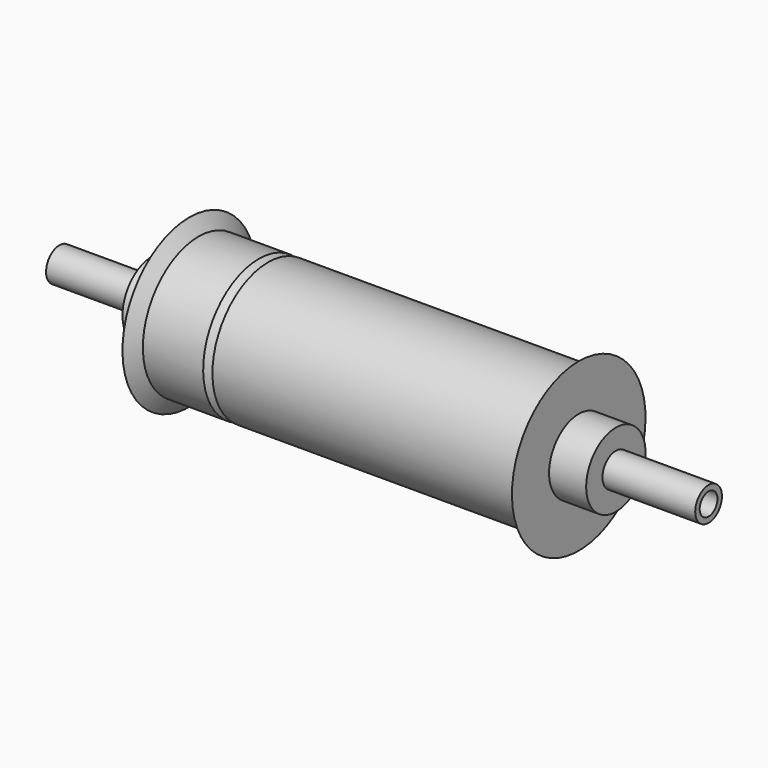
from build123d import *


with BuildPart() as f1:
    # F0 (on Front) → F1 (revolve)
    with BuildSketch(Plane.XZ):
        Polygon((70, 2.4), (70, 3.6), (50, 3.6), (50, 8), (42, 8), (42, 18), (40, 15), (-25, 15), (-25, 13.8), (37.265728, 13.8), (41.30718, 6.8), (46.766838, 6.8), (49.30718, 2.4), align=None)
    revolve(axis=Axis((37.433878, 0, 0), (1, 0, 0)))


with BuildPart() as f3:
    # F2 (on Front) → F3 (revolve)
    with BuildSketch(Plane.XZ):
        Polygon((-27, 15), (-40, 15), (-42, 18), (-42, 8), (-50, 8), (-50, 3.6), (-70, 3.6), (-70, 2.4), (-49.30718, 2.4), (-46.766838, 6.8), (-41.30718, 6.8), (-37.265728, 13.8), (-28.2, 13.8), align=None)
        Polygon((-25.8, 13.8), (-27, 15), (-28.2, 13.8), (-27, 12.6), align=None)
        Polygon((27.265728, 13.8), (-25.8, 13.8), (-27, 12.6), (27.265728, 12.6), align=None)
    revolve(axis=Axis((37.433878, 0, 0), (1, 0, 0)))


solid = Compound([f1.part, f3.part])
